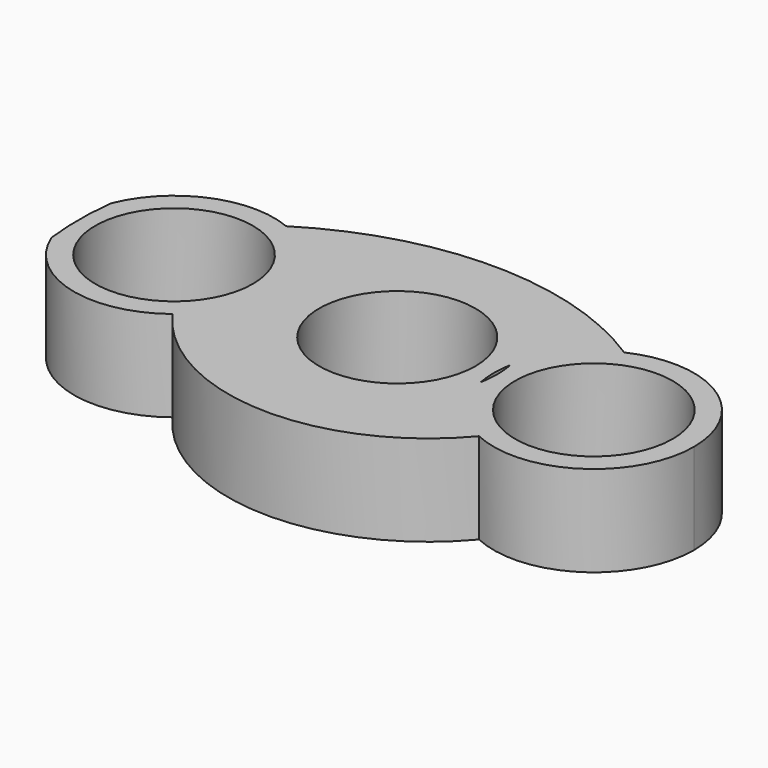
from build123d import *

# Parameters (mm, degrees)
F0_R     = 10.9982
F0_R_2   = 10.9137143354
F1_DEPTH = 12.7


with BuildPart() as f1:
    # F0 (on Top) → F1 (new body)
    with BuildSketch(Plane.XY):
        with BuildLine():
            ThreePointArc((-25.8441113636, 12.9163114686), (-36.6183263022, 12.8623681815), (-44.1497681666, 5.1575644288))
            ThreePointArc((-44.1497681666, 5.1575644288), (-44.45, 0), (-44.1497681666, -5.1575644288))
            ThreePointArc((-44.1497681666, -5.1575644288), (-34.8282447282, -13.4816128788), (-22.5765010853, -11.016788439))
            ThreePointArc((-22.5765010853, -11.016788439), (-18.6134833709, -6.13009055), (-17.1966857451, 0))
            ThreePointArc((-17.1966857451, 0), (-19.5581271759, 7.7718895994), (-25.8441113636, 12.9163114686))
        make_face()
        with Locations((-31.1666857451, 0)):
            Circle(F0_R, mode=Mode.SUBTRACT)
        with BuildLine():
            ThreePointArc((13.7226451188, -2.6172334521), (13.4752902377, 0), (13.7226451188, 2.6172334521))
            ThreePointArc((13.7226451188, 2.6172334521), (-13.97, 0), (13.7226451188, -2.6172334521))
        make_face()
        Circle(F0_R_2, mode=Mode.SUBTRACT)
        with BuildLine():
            ThreePointArc((41.4152902377, 0), (34.9539662549, 11.7805214005), (21.5469030554, 12.6637249121))
            ThreePointArc((21.5469030554, 12.6637249121), (16.4235288175, 8.583803073), (13.7226451188, 2.6172334521))
            ThreePointArc((13.7226451188, 2.6172334521), (13.9080238048, 1.3144481142), (13.97, 0))
            ThreePointArc((13.97, 0), (13.9080238048, -1.3144481142), (13.7226451188, -2.6172334521))
            ThreePointArc((13.7226451188, -2.6172334521), (16.4235288175, -8.583803073), (21.5469030554, -12.6637249121))
            ThreePointArc((21.5469030554, -12.6637249121), (34.9539662549, -11.7805214005), (41.4152902377, 0))
        make_face()
        with Locations((27.4452902377, 0)):
            Circle(F0_R, mode=Mode.SUBTRACT)
        with BuildLine():
            ThreePointArc((21.5469030554, 12.6637249121), (-2.1118543996, 19.6851125626), (-25.8441113636, 12.9163114686))
            ThreePointArc((-25.8441113636, 12.9163114686), (-19.5581271759, 7.7718895994), (-17.1966857451, 0))
            ThreePointArc((-17.1966857451, 0), (-18.6134833709, -6.13009055), (-22.5765010853, -11.016788439))
            ThreePointArc((-22.5765010853, -11.016788439), (-0.9182159345, -22.6482799794), (21.5469030554, -12.6637249121))
            ThreePointArc((21.5469030554, -12.6637249121), (16.4235288175, -8.583803073), (13.7226451188, -2.6172334521))
            ThreePointArc((13.7226451188, -2.6172334521), (-13.97, 0), (13.7226451188, 2.6172334521))
            ThreePointArc((13.7226451188, 2.6172334521), (16.4235288175, 8.583803073), (21.5469030554, 12.6637249121))
        make_face()
    extrude(amount=F1_DEPTH)


solid = f1.part
